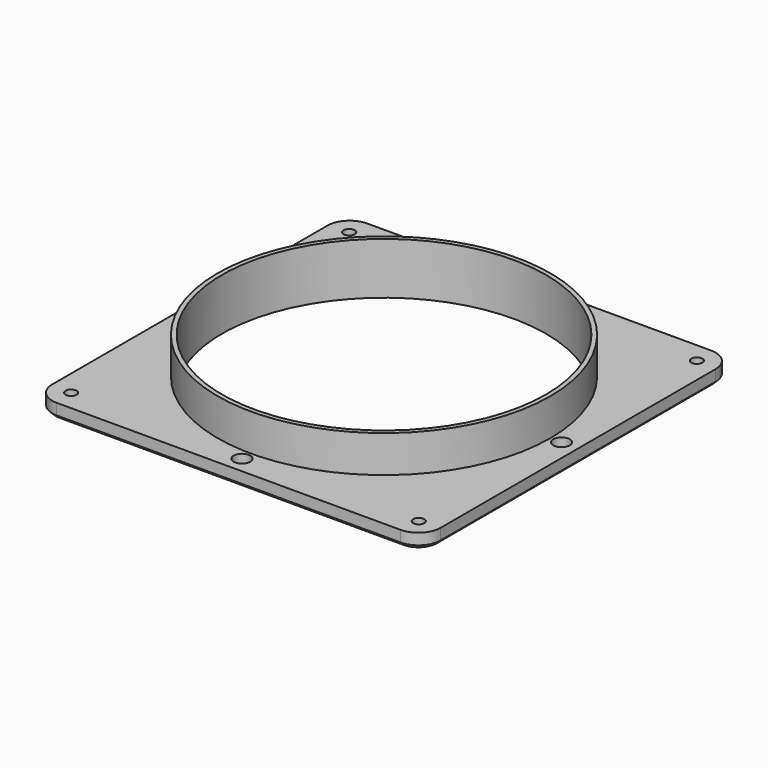
from build123d import *

# Parameters (mm, degrees)
PAD_DEPTH        = 4
HOLE_D           = 3
HOLE_CSINK_D     = 7
HOLE_CSINK_ANGLE = 90
SKETCH002_R      = 45
PAD001_DEPTH     = 10
SKETCH003_R      = 43.8
POCKET_DEPTH     = 14.001
SKETCH004_R      = 2.25
HOLE001_DEPTH    = 25
CHAMFER_SIZE     = 1


with BuildPart() as part:
    # Sketch → Pad (new body)
    with BuildSketch(Plane.XY):
        with BuildLine():
            Line((-52.5, 46.5), (-52.5, -46.5))
            ThreePointArc((-52.5, -46.5), (-50.742641, -50.742641), (-46.5, -52.5))
            Line((-46.5, -52.5), (46.5, -52.5))
            ThreePointArc((46.5, -52.5), (50.742641, -50.742641), (52.5, -46.5))
            Line((52.5, -46.5), (52.5, 46.5))
            ThreePointArc((52.5, 46.5), (50.742641, 50.742641), (46.5, 52.5))
            Line((46.5, 52.5), (-46.5, 52.5))
            ThreePointArc((-46.5, 52.5), (-50.742641, 50.742641), (-52.5, 46.5))
        make_face()
    extrude(amount=PAD_DEPTH)

    # Hole (through all)
    with Locations(Plane(origin=(0, 0, 0), x_dir=(1, 0, 0), z_dir=(0, 0, -1))):
        with Locations((-47, -47), (47, -47), (47, 47), (-47, 47)):
            CounterSinkHole(HOLE_D / 2, HOLE_CSINK_D / 2, counter_sink_angle=HOLE_CSINK_ANGLE)

    # Sketch002 (on DatumPlane) → Pad001 (join)
    with BuildSketch(Plane.XY.offset(4)):
        Circle(SKETCH002_R)
    extrude(amount=PAD001_DEPTH)

    # Sketch003 (on Face20 of Pad001) → Pocket (cut, through all)
    with BuildSketch(Plane.XY.offset(14)):
        Circle(SKETCH003_R)
    extrude(amount=-POCKET_DEPTH, mode=Mode.SUBTRACT)

    # Sketch004 → Hole001 (cut)
    with BuildSketch(Plane.XY):
        with Locations((0, 48)):
            Circle(SKETCH004_R)
        with Locations((48, 0)):
            Circle(SKETCH004_R)
        with Locations((0, -48)):
            Circle(SKETCH004_R)
        with Locations((-48, 0)):
            Circle(SKETCH004_R)
    extrude(amount=HOLE001_DEPTH, mode=Mode.SUBTRACT)

    # Chamfer
    chamfer_edges = [part.edges().sort_by_distance(p)[0] for p in [
        (-52.5, 0, 0),
    ]]
    chamfer(chamfer_edges, length=CHAMFER_SIZE)


solid = part.part
